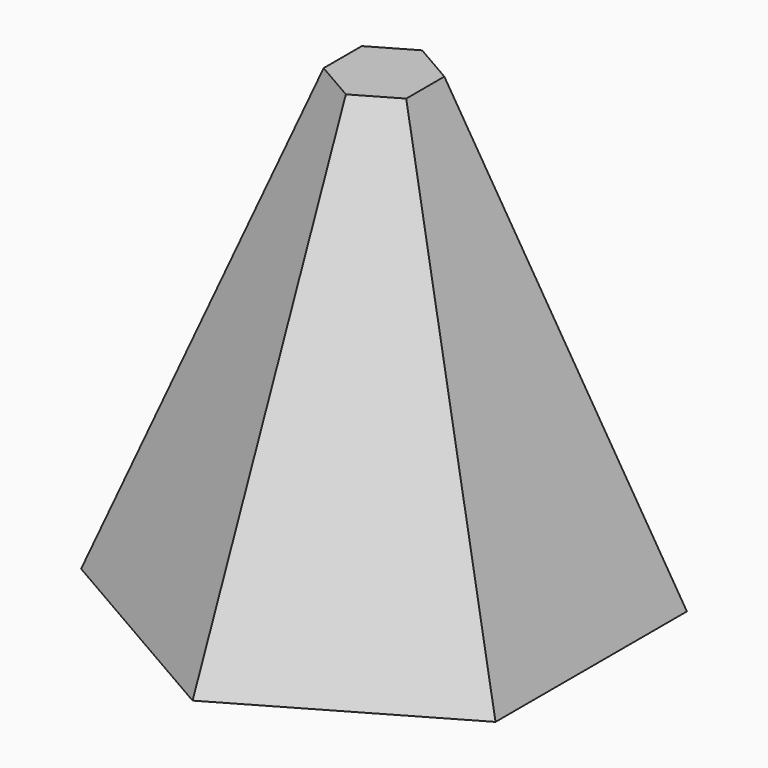
from build123d import *

# Parameters (mm, degrees)
F1_DEPTH = 139.7
F1_TAPER = 20


with BuildPart() as f1:
    # F0 (on Top) → F1 (new body)
    with BuildSketch(Plane.XY):
        Polygon((63.5, -36.6617420935), (63.5, 36.6617420935), (0, 73.3234841871), (-63.5, 36.6617420935), (-63.5, -36.6617420935), (0, -73.3234841871), align=None)
    extrude(amount=F1_DEPTH, taper=F1_TAPER)


solid = f1.part
